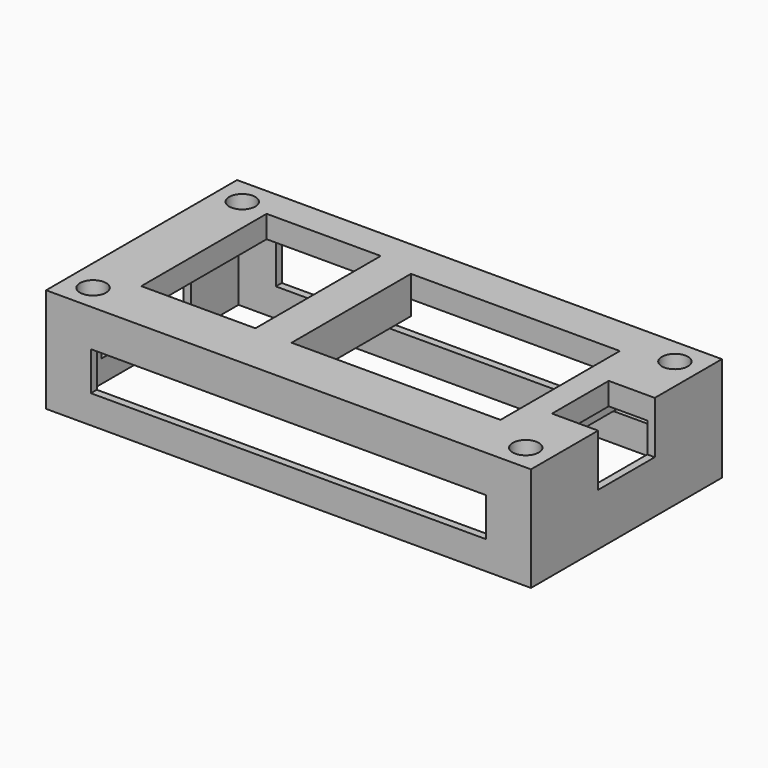
from build123d import *

# Parameters (mm, degrees)
SKETCH_W        = 65
SKETCH_H        = 32
SKETCH_R        = 1.75
SKETCH_W_2      = 28
SKETCH_H_2      = 20
SKETCH_W_3      = 15.3
SKETCH_H_3      = 21
PAD_DEPTH       = 14
SKETCH001_W     = 63
SKETCH001_H     = 30
POCKET_DEPTH    = 11
SKETCH002_W     = 6.174751
SKETCH002_H     = 9.5
POCKET001_DEPTH = 7
SKETCH004_W     = 2
SKETCH004_H     = 20
PAD001_DEPTH    = 2
SKETCH005_W     = 15
SKETCH005_H     = 4
POCKET002_DEPTH = 5
SKETCH003_W     = 53
SKETCH003_H     = 5.2
POCKET003_DEPTH = 32.0010000001


with BuildPart() as part:
    # Sketch → Pad (new body)
    with BuildSketch(Plane.XY):
        with Locations((32.5, 16)):
            Rectangle(SKETCH_W, SKETCH_H)
        with Locations((3.5, 28.5)):
            Circle(SKETCH_R, mode=Mode.SUBTRACT)
        with Locations((61.4999634499, 28.5)):
            Circle(SKETCH_R, mode=Mode.SUBTRACT)
        with Locations((3.5, 3.5)):
            Circle(SKETCH_R, mode=Mode.SUBTRACT)
        with Locations((61.4999634499, 3.5)):
            Circle(SKETCH_R, mode=Mode.SUBTRACT)
        with Locations((41.4999634499, 16.7655958753)):
            Rectangle(SKETCH_W_2, SKETCH_H_2, mode=Mode.SUBTRACT)
        with Locations((14.8499634499, 17.4539391628)):
            Rectangle(SKETCH_W_3, SKETCH_H_3, mode=Mode.SUBTRACT)
    extrude(amount=PAD_DEPTH)

    # Sketch001 → Pocket (cut)
    with BuildSketch(Plane(origin=(0, 0, 0), x_dir=(1, 0, 0), z_dir=(0, 0, -1))):
        with Locations((32.5, -16)):
            Rectangle(SKETCH001_W, SKETCH001_H)
    extrude(amount=-POCKET_DEPTH, mode=Mode.SUBTRACT)

    # Sketch002 → Pocket001 (cut)
    with BuildSketch(Plane.XY.offset(14)):
        with Locations((61.9126245, 16)):
            Rectangle(SKETCH002_W, SKETCH002_H)
    extrude(amount=-POCKET001_DEPTH, mode=Mode.SUBTRACT)

    # Sketch004 → Pad001 (new body)
    with BuildSketch(Plane(origin=(0, 0, 11), x_dir=(1, 0, 0), z_dir=(0, 0, -1))):
        with Locations((26.4999634499, -16.7655958753)):
            Rectangle(SKETCH004_W, SKETCH004_H)
        with Locations((56.4999634499, -16.7655958753)):
            Rectangle(SKETCH004_W, SKETCH004_H)
    extrude(amount=PAD001_DEPTH)

    # Sketch005 → Pocket002 (cut)
    with BuildSketch(Plane(origin=(0, 0, 0), x_dir=(0, -1, 0), z_dir=(-1, 0, 0))):
        with Locations((-15.5, 5)):
            Rectangle(SKETCH005_W, SKETCH005_H)
    extrude(amount=-POCKET002_DEPTH, mode=Mode.SUBTRACT)

    # Sketch003 → Pocket003 (cut, through all)
    with BuildSketch(Plane(origin=(0, 32, 0), x_dir=(-1, 0, 0), z_dir=(0, 1, 0))):
        with Locations((-32.5, 6.4)):
            Rectangle(SKETCH003_W, SKETCH003_H)
    extrude(amount=-POCKET003_DEPTH, mode=Mode.SUBTRACT)


solid = part.part
